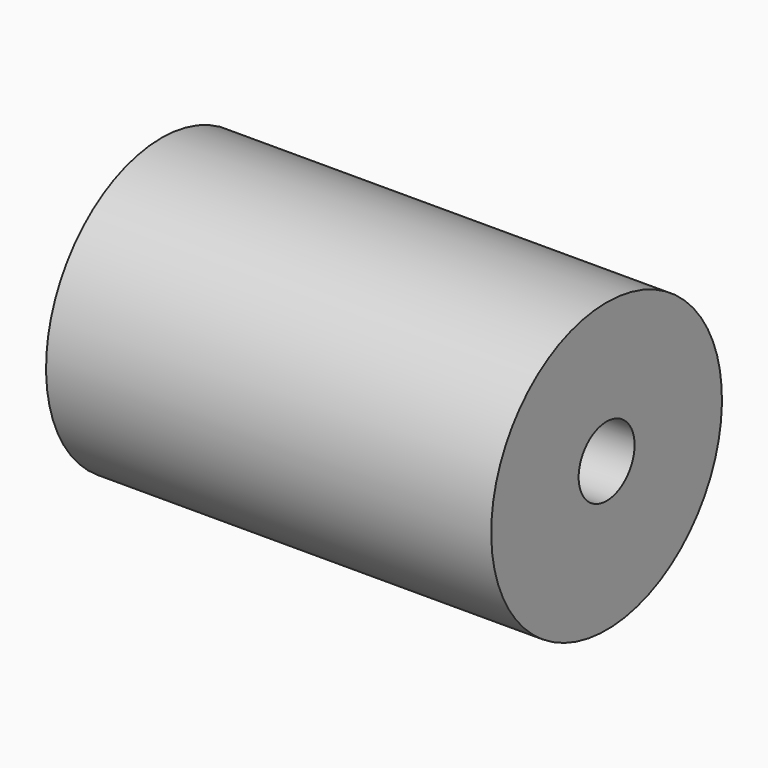
from build123d import *

# Parameters (mm, degrees)
F2_R     = 4
F3_DEPTH = 20.418424405
F4_R     = 1.75
F5_DEPTH = 25
F2_R_2   = 5
F6_DEPTH = 25
F7_DEPTH = 10


with BuildPart() as f1:
    # F0 (on Front) → F1 (revolve)
    with BuildSketch(Plane.XZ):
        with BuildLine():
            Line((30.9380175069, 2.5), (30.9380175069, 0))
            Line((30.9380175069, 0), (32.0326841507, 0))
            Line((32.0326841507, 0), (50.9380175069, 0))
            Line((50.9380175069, 0), (50.9380175069, 16.5))
            Line((50.9380175069, 16.5), (30.9380175069, 16.5))
            Line((30.9380175069, 16.5), (9, 16.5))
            Line((9, 16.5), (0, 16.5))
            Line((0, 16.5), (0, 1.875))
            Line((0, 1.875), (9, 1.875))
            Line((9, 1.875), (9, 2.5))
            ThreePointArc((9, 2.5), (10.4644660941, 6.0355339059), (14, 7.5))
            Line((14, 7.5), (25.9380175069, 7.5))
            ThreePointArc((25.9380175069, 7.5), (29.4735514129, 6.0355339059), (30.9380175069, 2.5))
        make_face()
        with BuildLine():
            Line((30.9380175069, 2.5), (30.9380175069, 0))
            Line((30.9380175069, 0), (32.0326841507, 0))
            Line((32.0326841507, 0), (50.9380175069, 0))
            Line((50.9380175069, 0), (50.9380175069, 16.5))
            Line((50.9380175069, 16.5), (30.9380175069, 16.5))
            Line((30.9380175069, 16.5), (9, 16.5))
            Line((9, 16.5), (0, 16.5))
            Line((0, 16.5), (0, 1.875))
            Line((0, 1.875), (9, 1.875))
            Line((9, 1.875), (9, 2.5))
            ThreePointArc((9, 2.5), (10.4644660941, 6.0355339059), (14, 7.5))
            Line((14, 7.5), (25.9380175069, 7.5))
            ThreePointArc((25.9380175069, 7.5), (29.4735514129, 6.0355339059), (30.9380175069, 2.5))
        make_face()
        with BuildLine():
            Line((30.9380175069, 2.5), (30.9380175069, 0))
            Line((30.9380175069, 0), (32.0326841507, 0))
            Line((32.0326841507, 0), (50.9380175069, 0))
            Line((50.9380175069, 0), (50.9380175069, 16.5))
            Line((50.9380175069, 16.5), (30.9380175069, 16.5))
            Line((30.9380175069, 16.5), (9, 16.5))
            Line((9, 16.5), (0, 16.5))
            Line((0, 16.5), (0, 1.875))
            Line((0, 1.875), (9, 1.875))
            Line((9, 1.875), (9, 2.5))
            ThreePointArc((9, 2.5), (10.4644660941, 6.0355339059), (14, 7.5))
            Line((14, 7.5), (25.9380175069, 7.5))
            ThreePointArc((25.9380175069, 7.5), (29.4735514129, 6.0355339059), (30.9380175069, 2.5))
        make_face()
    revolve(axis=Axis((16.0163420754, 0, 0), (1, 0, 0)))

    # F2 (on face) → F3 (cut, through all)
    with BuildSketch(Plane.YZ.offset(50.9380175069)):
        with Locations((0, 0.5)):
            Circle(F2_R)
    extrude(amount=-F3_DEPTH, mode=Mode.SUBTRACT)

    # F4 (on Front) → F5 (cut)
    with BuildSketch(Plane.XZ):
        with Locations((43.1880175069, 0.5)):
            Circle(F4_R)
    extrude(amount=-F5_DEPTH, mode=Mode.SUBTRACT)

    # F2 (on face) → F6 (cut)
    with BuildSketch(Plane.YZ.offset(50.9380175069)):
        with Locations((0, 0.5)):
            Circle(F2_R_2)
        with Locations((0, 0.5)):
            Circle(F2_R, mode=Mode.SUBTRACT)
    extrude(amount=-F6_DEPTH, mode=Mode.SUBTRACT)

    # F2 (on face) → F7 (join)
    with BuildSketch(Plane.YZ.offset(50.9380175069)):
        with Locations((0, 0.5)):
            Circle(F2_R_2)
        with Locations((0, 0.5)):
            Circle(F2_R, mode=Mode.SUBTRACT)
    extrude(amount=-F7_DEPTH)


solid = f1.part
